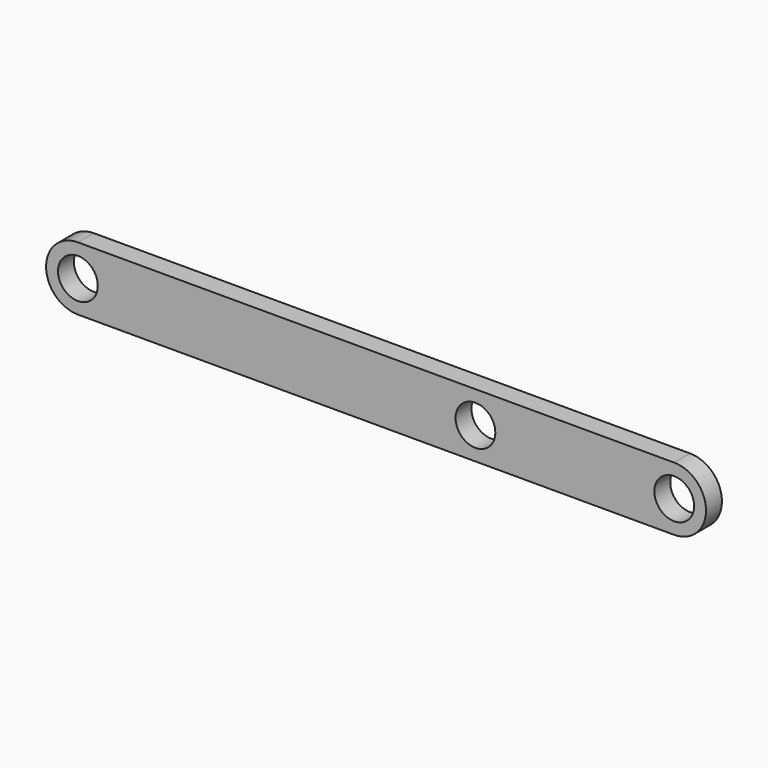
from build123d import *

# Parameters (mm, degrees)
F0_R     = 2.5
F1_DEPTH = 2.5


with BuildPart() as f1:
    # F0 (on Front) → F1 (new body)
    with BuildSketch(Plane.XZ):
        with BuildLine():
            Line((75, 4), (0, 4))
            ThreePointArc((0, 4), (-4, 0), (0, -4))
            Line((0, -4), (75, -4))
            ThreePointArc((75, -4), (79, 0), (75, 4))
        make_face()
        Circle(F0_R, mode=Mode.SUBTRACT)
        with Locations((50, 0)):
            Circle(F0_R, mode=Mode.SUBTRACT)
        with Locations((75, 0)):
            Circle(F0_R, mode=Mode.SUBTRACT)
    extrude(amount=F1_DEPTH)


solid = f1.part
